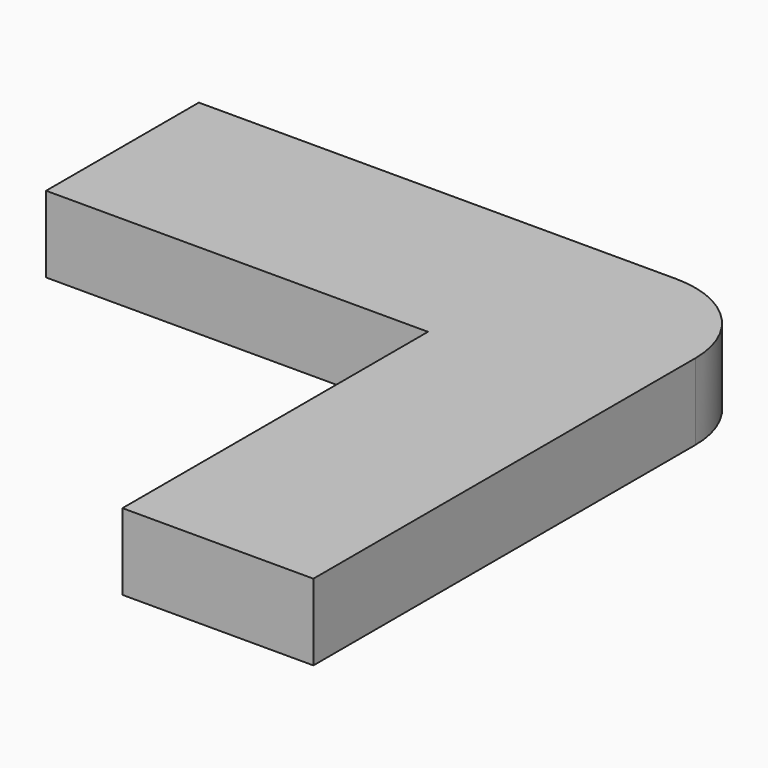
from build123d import *

# Parameters (mm, degrees)
F0_W     = 20
F0_H     = 10
F1_DEPTH = 4
F2_R     = 5


with BuildPart() as f1:
    # F0 (on Top) → F1 (new body)
    with BuildSketch(Plane.XY):
        Polygon((5, -15), (5, 15), (-5, 15), (-5, 5), (-5, -15), align=None)
        with Locations((-15, 10)):
            Rectangle(F0_W, F0_H)
    extrude(amount=F1_DEPTH)

    # F2
    f2_edges = [f1.edges().sort_by_distance(p)[0] for p in [
        (5, 15, 2),
    ]]
    fillet(f2_edges, radius=F2_R)


solid = f1.part
